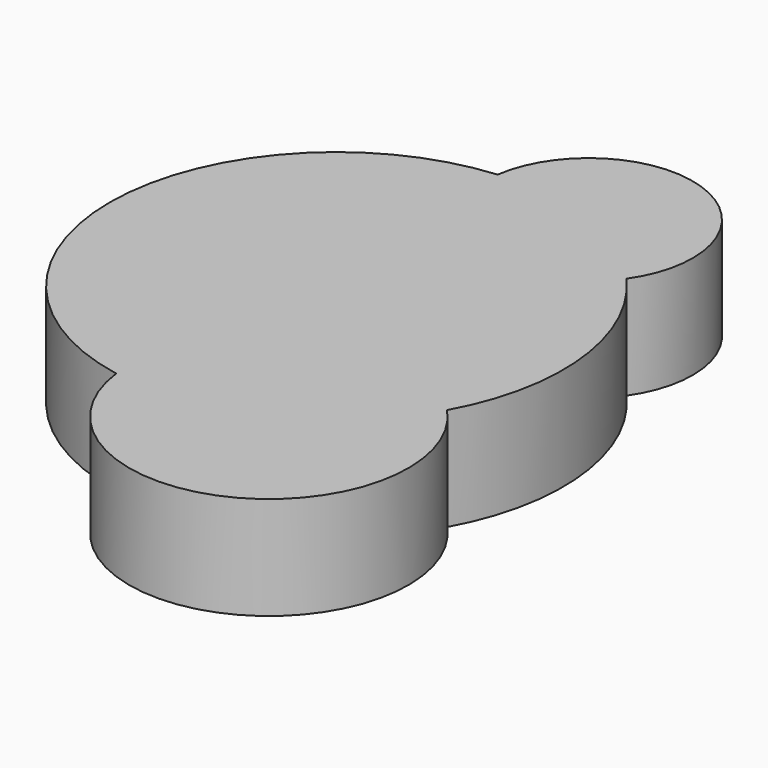
from build123d import *

# Parameters (mm, degrees)
F1_DEPTH = 12.5


with BuildPart() as f1:
    # F0 (on Top) → F1 (new body, symmetric)
    with BuildSketch(Plane.XY):
        with BuildLine():
            ThreePointArc((-10.186299, -54.085997), (37.863813, -80.465297), (48.166816, -26.62731))
            ThreePointArc((48.166816, -26.62731), (54.689548, 6.173259), (41.019166, 36.694465))
            ThreePointArc((41.019166, 36.694465), (29.598386, 74.672585), (-4.740176, 54.832349))
            ThreePointArc((-4.740176, 54.832349), (-54.968186, 2.748513), (-10.186299, -54.085997))
        make_face()
    extrude(amount=F1_DEPTH, both=True)


solid = f1.part
